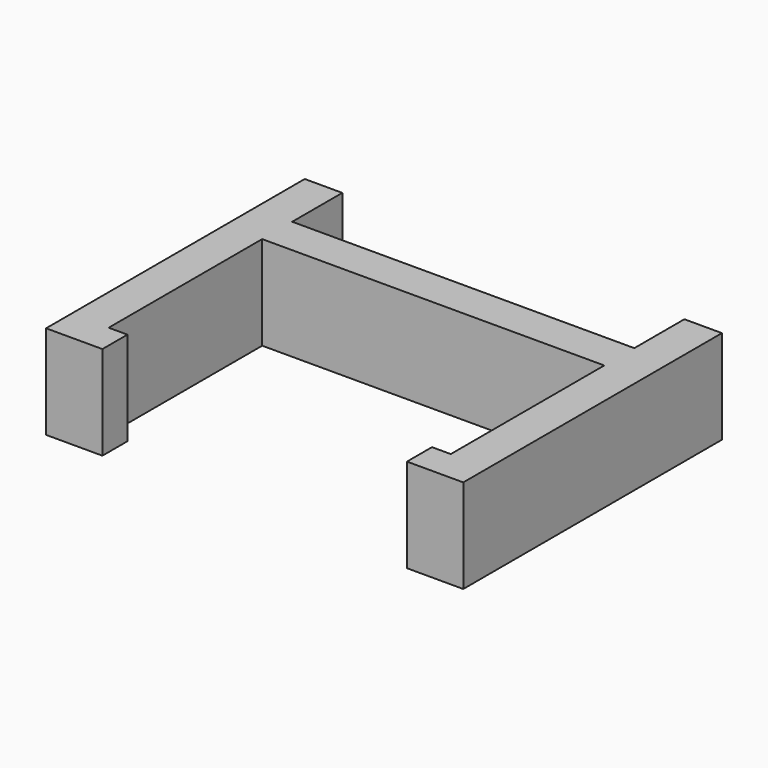
from build123d import *

# Parameters (mm, degrees)
F1_DEPTH = 4.5


with BuildPart() as f1:
    # F0 (on Top) → F1 (new body)
    with BuildSketch(Plane.XY):
        Polygon((8.2, 0.9), (-8.2, 0.9), (-8.2, 3.9), (-10, 3.9), (-10, 0.9), (-10, -0.9), (-10, -10.1), (-10, -11.6), (-7.3, -11.6), (-7.3, -10.1), (-8.2, -10.1), (-8.2, -0.9), (8.2, -0.9), (8.2, -10.1), (7.3, -10.1), (7.3, -11.6), (10, -11.6), (10, -10.1), (10, -0.9), (10, 0.9), (10, 3.9), (8.2, 3.9), align=None)
    extrude(amount=F1_DEPTH)


solid = f1.part
